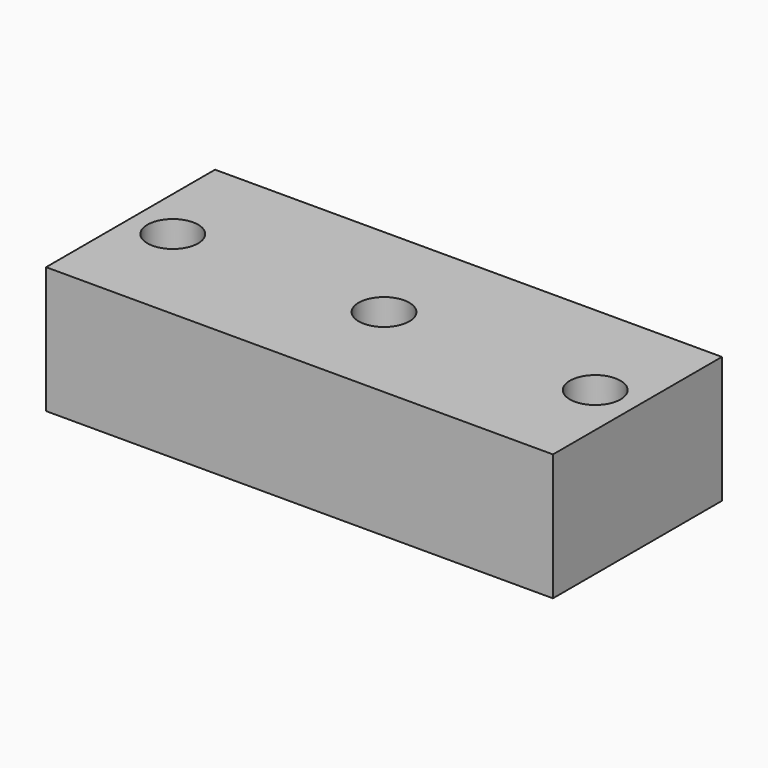
from build123d import *

# Parameters (mm, degrees)
F0_W     = 120
F0_H     = 30
F1_DEPTH = 50
F2_R     = 6
F3_DEPTH = 30.001


with BuildPart() as f1:
    # F0 (on Front) → F1 (new body)
    with BuildSketch(Plane.XZ):
        with Locations((-60, 15)):
            Rectangle(F0_W, F0_H)
    extrude(amount=F1_DEPTH)

    # F2 (on face) → F3 (cut, through all)
    with BuildSketch(Plane(origin=(0, 0, 0), x_dir=(1, 0, 0), z_dir=(0, 0, -1))):
        with Locations((-110, 25)):
            Circle(F2_R)
        with Locations((-10, 25)):
            Circle(F2_R)
        with Locations((-60, 25)):
            Circle(F2_R)
    extrude(amount=-F3_DEPTH, mode=Mode.SUBTRACT)


solid = f1.part
